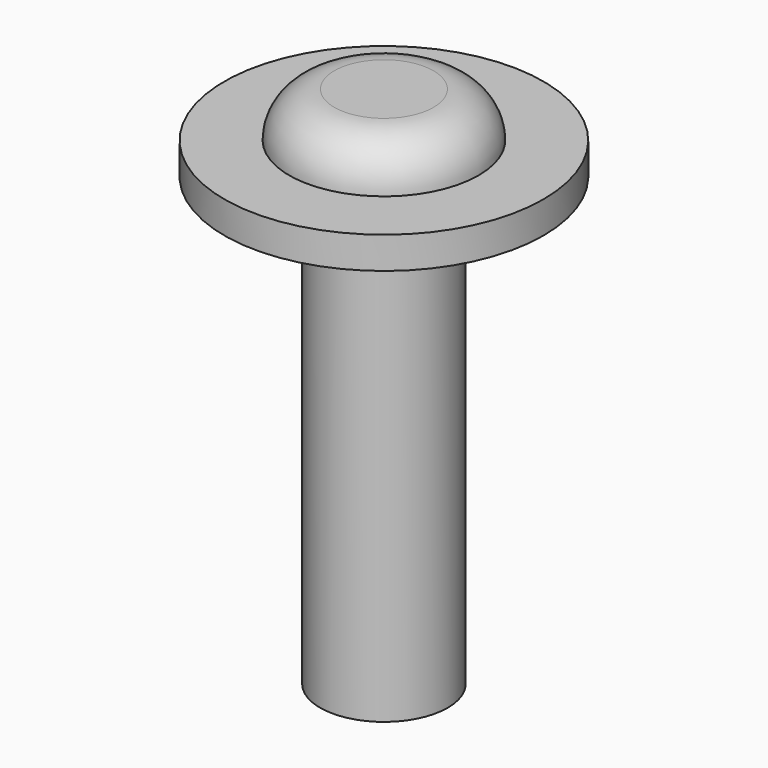
from build123d import *


with BuildPart() as f1:
    # F0 (on Front) → F1 (revolve)
    with BuildSketch(Plane.XZ):
        with BuildLine():
            Line((0, 0.5), (0, 0))
            Line((0, 0), (0, -7.5))
            Line((0, -7.5), (1, -7))
            Line((1, -7), (1, 0))
            Line((1, 0), (2.5, 0))
            Line((2.5, 0), (2.5, 0.5))
            Line((2.5, 0.5), (1.484474, 0.5))
            ThreePointArc((1.484474, 0.5), (1.277239, 1.00031), (0.776929, 1.207545))
            Line((0.776929, 1.207545), (0, 1.207545))
            Line((0, 1.207545), (0, 0.5))
        make_face()
    revolve(axis=Axis((0, 0, -3.75), (0, 0, -1)))


solid = f1.part
